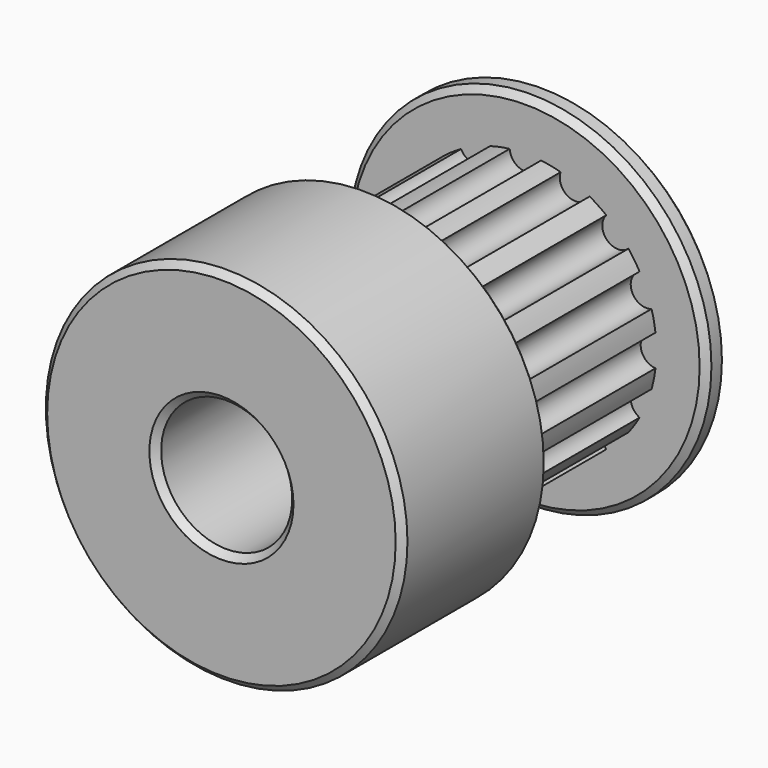
from build123d import *

# Parameters (mm, degrees)
F0_R     = 6.9
F1_DEPTH = 1
F2_R     = 5
F3_DEPTH = 7.5
F4_R     = 6.9
F5_DEPTH = 7
F6_R     = 0.6
F7_DEPTH = 7.5
F8_R     = 2.5
F9_DEPTH = 15.501
F10_SIZE = 0.25


with BuildPart() as f1:
    # F0 (on Front) → F1 (new body)
    with BuildSketch(Plane.XZ):
        Circle(F0_R)
    extrude(amount=F1_DEPTH)

    # F2 (on face) → F3 (join)
    with BuildSketch(Plane.XZ.offset(1)):
        Circle(F2_R)
    extrude(amount=F3_DEPTH)

    # F4 (on face) → F5 (join)
    with BuildSketch(Plane.XZ.offset(8.5)):
        Circle(F4_R)
    extrude(amount=F5_DEPTH)

    # F6 (on face) → F7 (cut, through all)
    with BuildSketch(Plane.XZ.offset(1)):
        with Locations((0, 5)):
            Circle(F6_R)
        with Locations((-1.913417, 4.619398)):
            Circle(F6_R)
        with Locations((-3.535534, 3.535534)):
            Circle(F6_R)
        with Locations((-4.619398, 1.913417)):
            Circle(F6_R)
        with Locations((-5, 0)):
            Circle(F6_R)
        with Locations((-4.619398, -1.913417)):
            Circle(F6_R)
        with Locations((-3.535534, -3.535534)):
            Circle(F6_R)
        with Locations((-1.913417, -4.619398)):
            Circle(F6_R)
        with Locations((0, -5)):
            Circle(F6_R)
        with Locations((1.913417, -4.619398)):
            Circle(F6_R)
        with Locations((3.535534, -3.535534)):
            Circle(F6_R)
        with Locations((4.619398, -1.913417)):
            Circle(F6_R)
        with Locations((5, 0)):
            Circle(F6_R)
        with Locations((4.619398, 1.913417)):
            Circle(F6_R)
        with Locations((3.535534, 3.535534)):
            Circle(F6_R)
        with Locations((1.913417, 4.619398)):
            Circle(F6_R)
    extrude(amount=F7_DEPTH, mode=Mode.SUBTRACT)

    # F8 (on face) → F9 (cut, through all)
    with BuildSketch(Plane.XZ.offset(15.5)):
        Circle(F8_R)
    extrude(amount=-F9_DEPTH, mode=Mode.SUBTRACT)

    # F10
    f10_edges = [f1.edges().sort_by_distance(p)[0] for p in [
        (6.9, -12, 0),
        (-6.9, -8.5, 0),
        (-6.9, -15.5, 0),
        (6.9, -0.5, 0),
        (-6.9, 0, 0),
        (-6.9, -1, 0),
        (-2.5, -15.5, 0),
        (2.5, -7.75, 0),
        (-2.5, 0, 0),
    ]]
    chamfer(f10_edges, length=F10_SIZE)


solid = f1.part
